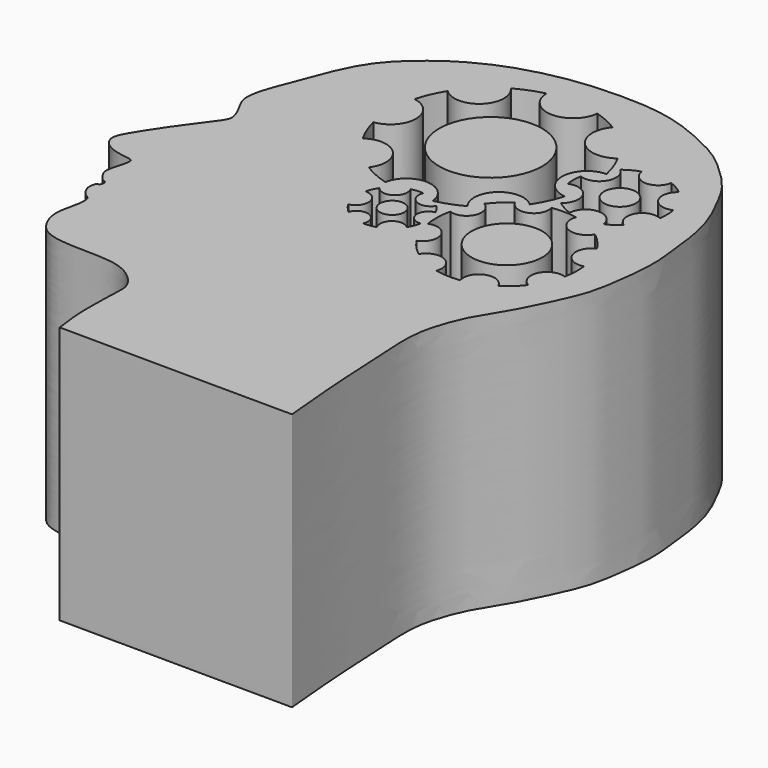
from build123d import *

# Parameters (mm, degrees)
F1_DEPTH = 25
F0_R     = 4.9822703432
F0_R_2   = 1.5421907885
F0_R_3   = 3.4312023904
F0_R_4   = 1.1764695549


with BuildPart() as f1:
    # F0 (on Top) → F1 (new body)
    with BuildSketch(Plane.XY):
        with BuildLine():
            add(Edge.make_bspline(
                [(-58.4528446198, -34.7891151905), (-58.4724485185, -34.7880655616), (-58.4573605476, -34.7780116039), (-58.8051495951, -32.4874378122), (-58.7747751732, -30.5865544594), (-58.7588649014, -28.0697784435), (-58.5996964499, -26.4783016924), (-59.3018016456, -25.3546062061), (-60.4776848617, -24.4057331653), (-62.1620357874, -23.7986198857), (-65.1402600381, -23.7788334842), (-67.3969244899, -23.7003180296), (-69.2057863133, -23.1910262942), (-70.2021762292, -21.7069935715), (-70.5464910028, -20.0842159624), (-70.0050308997, -18.384207913), (-69.9075229287, -16.816461228), (-70.5791916176, -16.635221695), (-71.02410348, -15.901054519), (-71.1811606557, -15.4525680813), (-71.0859655754, -14.6415775828), (-70.6506981177, -14.6382194292), (-70.5845303364, -13.9468068595), (-71.1420825283, -13.8822623961), (-71.6069337821, -13.1470133021), (-71.9204858048, -12.5277028436), (-71.4373332369, -10.9856938026), (-71.2997192572, -10.2895044095), (-71.3764808513, -9.8553579623), (-72.7072977691, -9.7976131197), (-74.1474444644, -9.323739365), (-74.8856202814, -8.27923824), (-74.7306200972, -7.275588005), (-73.156175271, -4.8446915936), (-71.6581583419, -2.633887522), (-69.7906344313, -0.3106540713), (-69.7265246845, 0.4678236211), (-70.3209032816, 1.8185518768), (-71.138660083, 3.0482232864), (-70.8492401698, 5.0957904013), (-69.711435306, 7.7928162368), (-68.4594197638, 11.4181836492), (-66.6798255337, 14.5821801539), (-63.6543562391, 17.1052361336), (-61.8147226425, 18.315397678), (-59.4137480211, 19.5350148131), (-56.7435703478, 20.4218034553), (-53.7131275189, 21.0859487546), (-50.5160775286, 21.394220042), (-45.5256707737, 21.3806143507), (-41.8527441548, 20.3440536852), (-38.8261240197, 18.9309193548), (-37.1351607285, 17.9207774755), (-35.2407689708, 16.2570532817), (-33.5012526169, 14.4059683433), (-32.405805211, 12.3169782977), (-31.0981635958, 9.7364335678), (-30.4092926116, 6.8330387167), (-30.2261193243, 4.5690242511), (-29.7854906371, 1.7408304049), (-30.1218466835, -1.7811931161), (-30.6355928227, -5.0903787938), (-31.6140241577, -7.3464601022), (-33.0012998159, -10.3434339974), (-34.3981645402, -12.7159305829), (-35.3952407159, -14.2123737182), (-36.3332654927, -16.6736293108), (-36.7869407987, -18.6201846576), (-36.8330024706, -20.9650272617), (-36.5564877794, -24.3720433427), (-36.4484249756, -28.5397187609), (-35.833920513, -34.9269525231), (-35.830597949, -34.9344100472), (-57.8394533112, -34.8219572929), (-58.4528446198, -34.7891151905)],
                knots=[0, 0, 0, 0, 0.0014692773, 0.0151920649, 0.0298154009, 0.0449678272, 0.0570410496, 0.0677270653, 0.0793726241, 0.0922387226, 0.1089292305, 0.1236902216, 0.1364984521, 0.148995954, 0.1612265891, 0.1744225965, 0.1857163019, 0.1929778916, 0.2016282415, 0.2086435371, 0.2166780092, 0.2222145022, 0.2290185777, 0.235585795, 0.2443070709, 0.2523641922, 0.2644994278, 0.2727490686, 0.27801677, 0.2886078319, 0.3008129828, 0.3110323184, 0.3202405005, 0.336349996, 0.3531591619, 0.3693197445, 0.3774333805, 0.3888413151, 0.4005048088, 0.4138309541, 0.4304934738, 0.4494531571, 0.4680575544, 0.4869645326, 0.5013928561, 0.5169972966, 0.5333279931, 0.5501503478, 0.5676264115, 0.589126104, 0.6083270031, 0.6256866743, 0.6392338216, 0.6544451555, 0.6698467254, 0.6846314053, 0.7011260899, 0.7177577591, 0.7322878723, 0.7484848551, 0.7668529767, 0.7844297326, 0.7995949669, 0.8172123277, 0.8331947118, 0.8462093612, 0.8616966137, 0.8754206345, 0.8900183118, 0.9073696569, 0.9291585335, 0.952351023, 0.954027414, 1, 1, 1, 1], degree=3))
        make_face()
        with BuildLine():
            ThreePointArc((-51.891082632, -0.4942709173), (-51.31467062, -0.4011637422), (-50.7308409053, -0.4090768916))
            ThreePointArc((-50.7308409053, -0.4090768916), (-50.1578395251, -1.879844557), (-48.6482896345, -1.4185992479))
            ThreePointArc((-48.6482896345, -1.4185992479), (-48.3073772258, -1.8327779171), (-48.036598234, -2.2958588797))
            ThreePointArc((-48.036598234, -2.2958588797), (-48.9472385294, -3.4907572148), (-47.7687979918, -4.4225971573))
            ThreePointArc((-47.7687979918, -4.4225971573), (-47.9434195621, -5.0083159931), (-48.2210861913, -5.5527978483))
            ThreePointArc((-48.2210861913, -5.5527978483), (-49.7235423557, -5.4608315), (-49.9825862688, -6.943642542))
            ThreePointArc((-49.9825862688, -6.943642542), (-50.5755273363, -7.0872788825), (-51.1846564238, -7.121517201))
            ThreePointArc((-51.1846564238, -7.121517201), (-51.7933058748, -5.664402705), (-53.2164147506, -6.3487987427))
            ThreePointArc((-53.2164147506, -6.3487987427), (-53.6601285253, -5.9048862464), (-54.0137054975, -5.3863078599))
            ThreePointArc((-54.0137054975, -5.3863078599), (-53.0379943018, -4.0102269437), (-54.3291323455, -2.9246056573))
            ThreePointArc((-54.3291323455, -2.9246056573), (-54.1319843009, -2.3645714498), (-53.839496719, -1.8478929428))
            ThreePointArc((-53.839496719, -1.8478929428), (-52.246142471, -2.0622872388), (-51.891082632, -0.4942709173))
        make_face(mode=Mode.SUBTRACT)
        with BuildLine():
            ThreePointArc((-46.0367627578, 1.1211912911), (-45.2546721345, 1.9950942472), (-44.3353289383, 2.7232289926))
            ThreePointArc((-44.3353289383, 2.7232289926), (-42.5101748497, 2.0206360911), (-41.6451283631, 3.7746368916))
            ThreePointArc((-41.6451283631, 3.7746368916), (-40.4391996328, 3.8623906801), (-39.236565379, 3.7373479613))
            ThreePointArc((-39.236565379, 3.7373479613), (-38.3880367514, 1.7687530242), (-36.3498777771, 2.4330382441))
            ThreePointArc((-36.3498777771, 2.4330382441), (-35.4874887005, 1.6419213784), (-34.7719009404, 0.7159003352))
            ThreePointArc((-34.7719009404, 0.7159003352), (-35.6073902432, -1.2229430831), (-33.7259035044, -2.1806297894))
            ThreePointArc((-33.7259035044, -2.1806297894), (-33.682467895, -3.301623044), (-33.8220677333, -4.4147377794))
            ThreePointArc((-33.8220677333, -4.4147377794), (-35.7852688946, -5.2032922427), (-35.1116763986, -7.2088470513))
            ThreePointArc((-35.1116763986, -7.2088470513), (-35.8868712737, -8.0545598928), (-36.7920019027, -8.7594682904))
            ThreePointArc((-36.7920019027, -8.7594682904), (-38.7139894521, -7.9306371819), (-39.6272342795, -9.8139802286))
            ThreePointArc((-39.6272342795, -9.8139802286), (-40.8214227066, -9.8700941147), (-42.0072552898, -9.718318451))
            ThreePointArc((-42.0072552898, -9.718318451), (-42.7902373609, -7.8054308433), (-44.760342352, -8.4306398063))
            ThreePointArc((-44.760342352, -8.4306398063), (-45.5747870582, -7.6854905653), (-46.2593608266, -6.819507698))
            ThreePointArc((-46.2593608266, -6.819507698), (-45.4070992512, -4.9219712515), (-47.3247331623, -4.1159473426))
            ThreePointArc((-47.3247331623, -4.1159473426), (-47.411874784, -2.8002490538), (-47.2460295859, -1.4921393415))
            ThreePointArc((-47.2460295859, -1.4921393415), (-45.4290146729, -0.746479476), (-46.0367627578, 1.1211912911))
        make_face(mode=Mode.SUBTRACT)
        with BuildLine():
            ThreePointArc((-54.0998385248, -0.7932554637), (-55.3875247852, -0.3292659208), (-56.5979912797, 0.3096339673))
            ThreePointArc((-56.5979912797, 0.3096339673), (-56.7720110969, 3.4561774033), (-59.9116242146, 3.7279272201))
            ThreePointArc((-59.9116242146, 3.7279272201), (-60.5227082759, 4.98277228), (-60.9492999347, 6.3117114852))
            ThreePointArc((-60.9492999347, 6.3117114852), (-58.7758060597, 8.7342147479), (-60.8826825883, 11.2148737282))
            ThreePointArc((-60.8826825883, 11.2148737282), (-60.4082211645, 12.5591193884), (-59.7437305507, 13.8202943414))
            ThreePointArc((-59.7437305507, 13.8202943414), (-56.398734619, 13.8032728488), (-56.2835787217, 17.1463293296))
            ThreePointArc((-56.2835787217, 17.1463293296), (-55.0048188358, 17.7574634122), (-53.6512698654, 18.1777215443))
            ThreePointArc((-53.6512698654, 18.1777215443), (-51.2022941549, 15.7092020572), (-48.5995056934, 18.0149693294))
            ThreePointArc((-48.5995056934, 18.0149693294), (-47.4052871579, 17.5679280583), (-46.279235585, 16.9695872992))
            ThreePointArc((-46.279235585, 16.9695872992), (-46.2038041418, 13.5321563814), (-42.7785037738, 13.2339306181))
            ThreePointArc((-42.7785037738, 13.2339306181), (-42.2278339272, 11.9995049681), (-41.8522870347, 10.7010410691))
            ThreePointArc((-41.8522870347, 10.7010410691), (-44.2277511509, 8.368892002), (-42.0304523457, 5.8681667074))
            ThreePointArc((-42.0304523457, 5.8681667074), (-42.5556093513, 4.4812168897), (-43.2840727545, 3.1894116615))
            ThreePointArc((-43.2840727545, 3.1894116615), (-46.4991195676, 3.2108565791), (-46.782888256, 0.0082855454))
            ThreePointArc((-46.782888256, 0.0082855454), (-48.0424799587, -0.5596606009), (-49.3694375891, -0.9447807506))
            ThreePointArc((-49.3694375891, -0.9447807506), (-51.6684713217, 1.1966119478), (-54.0998385248, -0.7932554637))
        make_face(mode=Mode.SUBTRACT)
        with BuildLine():
            ThreePointArc((-41.4796109861, 11.9192639057), (-40.7818154988, 12.3715129939), (-40.0133669592, 12.6892150901))
            ThreePointArc((-40.0133669592, 12.6892150901), (-38.5916805943, 11.3757383508), (-37.1069579191, 12.6175160453))
            ThreePointArc((-37.1069579191, 12.6175160453), (-36.3728398859, 12.2727123148), (-35.7116051541, 11.8030448488))
            ThreePointArc((-35.7116051541, 11.8030448488), (-36.1368418899, 9.8299228688), (-34.2061168336, 9.2414185049))
            ThreePointArc((-34.2061168336, 9.2414185049), (-34.1170829533, 8.4108310774), (-34.181398373, 7.5779649216))
            ThreePointArc((-34.181398373, 7.5779649216), (-36.1213699804, 6.9539064413), (-35.5970337475, 4.9846399943))
            ThreePointArc((-35.5970337475, 4.9846399943), (-36.2130271878, 4.5114926557), (-36.9005227729, 4.1500149346))
            ThreePointArc((-36.9005227729, 4.1500149346), (-38.5464573716, 5.5320623835), (-40.0685927847, 4.0147424968))
            ThreePointArc((-40.0685927847, 4.0147424968), (-40.8580562577, 4.355908457), (-41.5692176467, 4.8395366886))
            ThreePointArc((-41.5692176467, 4.8395366886), (-41.1376525488, 6.9325591169), (-43.1593732394, 7.6251172504))
            ThreePointArc((-43.1593732394, 7.6251172504), (-43.2159607058, 8.40646895), (-43.1376766328, 9.1859458411))
            ThreePointArc((-43.1376766328, 9.1859458411), (-41.1619826041, 9.8570255416), (-41.4796109861, 11.9192639057))
        make_face(mode=Mode.SUBTRACT)
    extrude(amount=F1_DEPTH)


with BuildPart() as f1b:
    # F0 (on Top) → F1, piece 2 (new body)
    with BuildSketch(Plane.XY):
        with Locations((-51.4302219682, 8.6344131716)):
            Circle(F0_R)
    extrude(amount=F1_DEPTH)


with BuildPart() as f1c:
    # F0 (on Top) → F1, piece 3 (new body)
    with BuildSketch(Plane.XY):
        with Locations((-38.6664904654, 8.343228139)):
            Circle(F0_R_2)
    extrude(amount=F1_DEPTH)


with BuildPart() as f1d:
    # F0 (on Top) → F1, piece 4 (new body)
    with BuildSketch(Plane.XY):
        with Locations((-40.5455380678, -3.0062112492)):
            Circle(F0_R_3)
    extrude(amount=F1_DEPTH)


with BuildPart() as f1e:
    # F0 (on Top) → F1, piece 5 (new body)
    with BuildSketch(Plane.XY):
        with Locations((-51.0681979358, -3.7578297779)):
            Circle(F0_R_4)
    extrude(amount=F1_DEPTH)


solid = Compound([f1.part, f1b.part, f1c.part, f1d.part, f1e.part])
